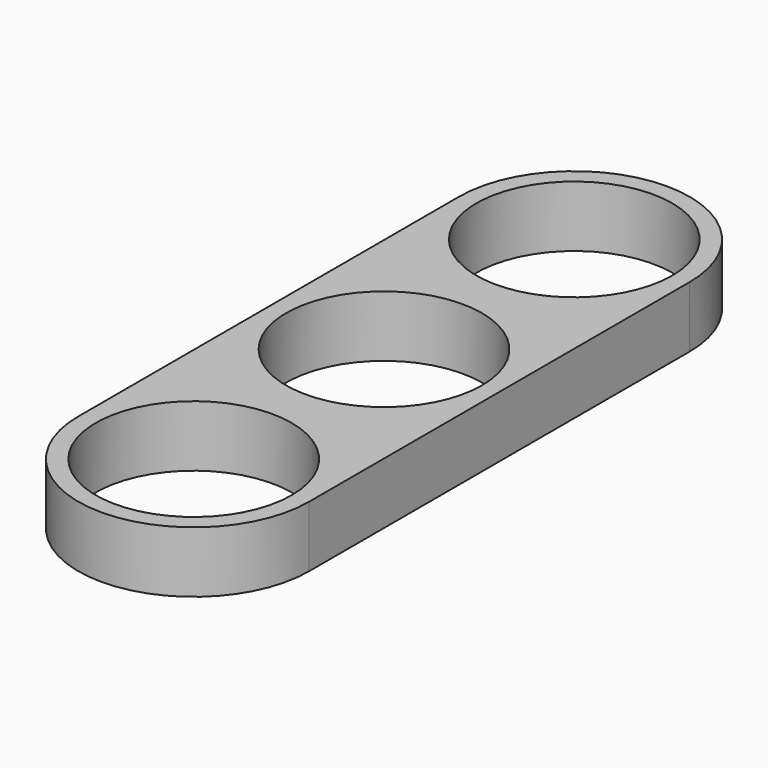
from build123d import *

# Parameters (mm, degrees)
F0_R     = 11.2
F1_DEPTH = 7


with BuildPart() as f1:
    # F0 (on Top) → F1 (new body)
    with BuildSketch(Plane.XY):
        with BuildLine():
            Line((13.2, -27.201815), (13.2, 27.201815))
            ThreePointArc((13.2, 27.201815), (0, 40.401815), (-13.2, 27.201815))
            Line((-13.2, 27.201815), (-13.2, -27.201815))
            ThreePointArc((-13.2, -27.201815), (0, -40.401815), (13.2, -27.201815))
        make_face()
        with Locations((0, -27.201815)):
            Circle(F0_R, mode=Mode.SUBTRACT)
        Circle(F0_R, mode=Mode.SUBTRACT)
        with Locations((0, 27.201815)):
            Circle(F0_R, mode=Mode.SUBTRACT)
    extrude(amount=F1_DEPTH)


solid = f1.part
